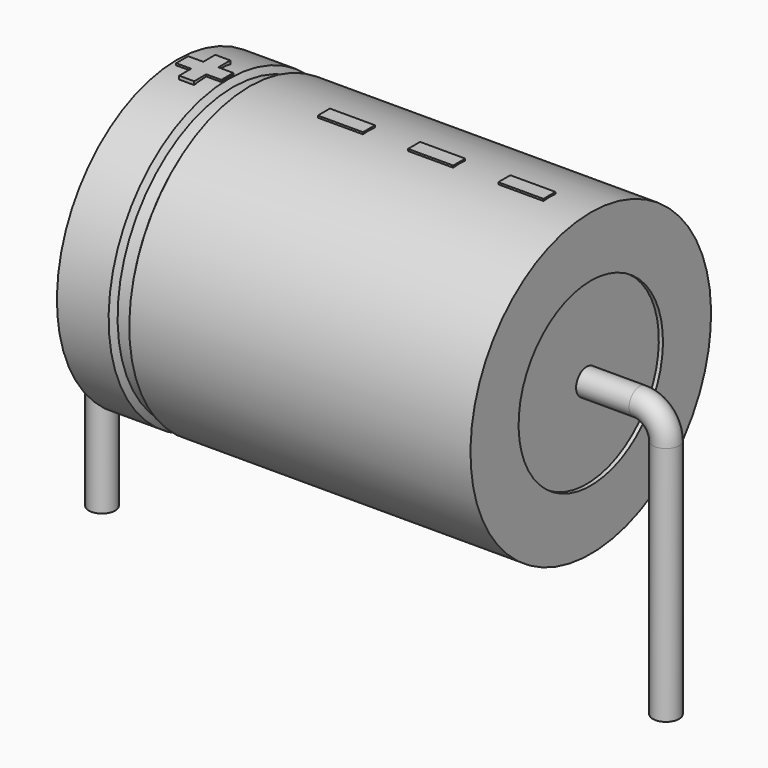
from build123d import *

# Parameters (mm, degrees)
SKETCH_R    = 0.35
SKETCH004_W = 1.2
SKETCH004_H = 0.4
PAD_DEPTH   = 4.04


with BuildPart() as sweep_body:
    # Sweep: sweep along a path in Sketch001
    with BuildLine(Plane.XZ) as sweep_path:
        Line((0, -3), (0, 3.4))
        ThreePointArc((0, 3.4), (0.205022, 3.894972), (0.699992, 4.1))
        Line((0.699992, 4.1), (14.3, 4.1))
        ThreePointArc((14.3, 4.1), (14.794975, 3.894975), (15, 3.4))
        Line((15, 3.4), (15, -3))
    # Sketch → Sweep (sweep)
    with BuildSketch(Plane.XY.offset(-2)):
        Circle(SKETCH_R)
    sweep(path=sweep_path.line)


with BuildPart() as revolution:
    # Sketch002 → Revolution (revolve)
    with BuildSketch(Plane.XZ):
        Polygon((2, 8.1), (2, 6.5), (13, 6.5), (13, 8.1), (3.925, 8.1), (3.815, 7.94), (3.485, 7.94), (3.375, 8.1), align=None)
    revolve(axis=Axis((6.97588, 0, 4.1), (1, 0, 0)))


with BuildPart() as revolution001:
    # Sketch003 → Revolution001 (revolve)
    with BuildSketch(Plane.XZ):
        Polygon((2.11, 7.94), (2.66, 7.94), (2.66, 4.5), (12.34, 4.5), (12.34, 7.94), (12.89, 7.94), (12.89, 4.1), (2.11, 4.1), align=None)
    revolve(axis=Axis((6.97588, 0, 4.1), (1, 0, 0)))


with BuildPart() as pad:
    # Sketch004 → Pad (new body)
    with BuildSketch(Plane.XY.offset(4.1)):
        with Locations((11.3, 0)):
            Rectangle(SKETCH004_W, SKETCH004_H)
        with Locations((8.9, 0)):
            Rectangle(SKETCH004_W, SKETCH004_H)
        with Locations((6.5, 0)):
            Rectangle(SKETCH004_W, SKETCH004_H)
        Polygon((2.532, 0.2), (2.132, 0.2), (2.132, -0.2), (2.532, -0.2), (2.532, -0.6), (2.932, -0.6), (2.932, -0.2), (3.332, -0.2), (3.332, 0.2), (2.932, 0.2), (2.932, 0.6), (2.532, 0.6), align=None)
    extrude(amount=PAD_DEPTH)


solid = Compound([sweep_body.part, revolution.part, revolution001.part, pad.part])
